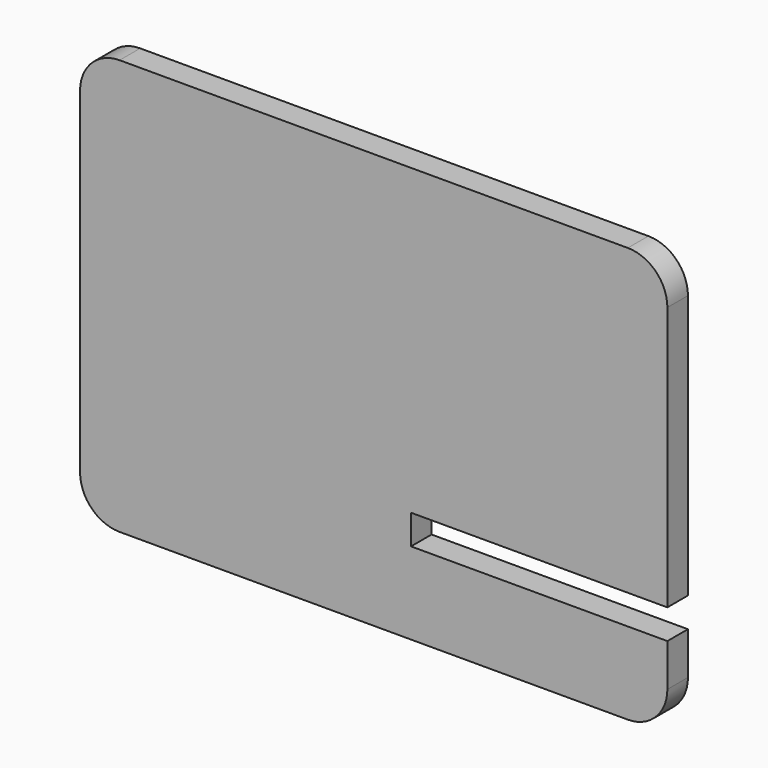
from build123d import *

# Parameters (mm, degrees)
F1_DEPTH = 13
F2_W     = 130
F2_H     = 15
F3_DEPTH = 25


with BuildPart() as f1:
    # F0 (on Front) → F1 (new body)
    with BuildSketch(Plane.XZ):
        with BuildLine():
            Line((208.19622, 153.513495), (-48.80378, 153.513495))
            ThreePointArc((-48.80378, 153.513495), (-62.945915, 147.65563), (-68.80378, 133.513495))
            Line((-68.80378, 133.513495), (-68.80378, -36.486505))
            ThreePointArc((-68.80378, -36.486505), (-62.945915, -50.628641), (-48.80378, -56.486505))
            Line((-48.80378, -56.486505), (208.19622, -56.486505))
            ThreePointArc((208.19622, -56.486505), (222.338356, -50.628641), (228.19622, -36.486505))
            Line((228.19622, -36.486505), (228.19622, 133.513495))
            ThreePointArc((228.19622, 133.513495), (222.338356, 147.65563), (208.19622, 153.513495))
        make_face()
    extrude(amount=F1_DEPTH)

    # F2 (on face) → F3 (cut)
    with BuildSketch(Plane.XZ.offset(13)):
        with Locations((163.556744, -7.5)):
            Rectangle(F2_W, F2_H)
    extrude(amount=-F3_DEPTH, mode=Mode.SUBTRACT)


solid = f1.part
